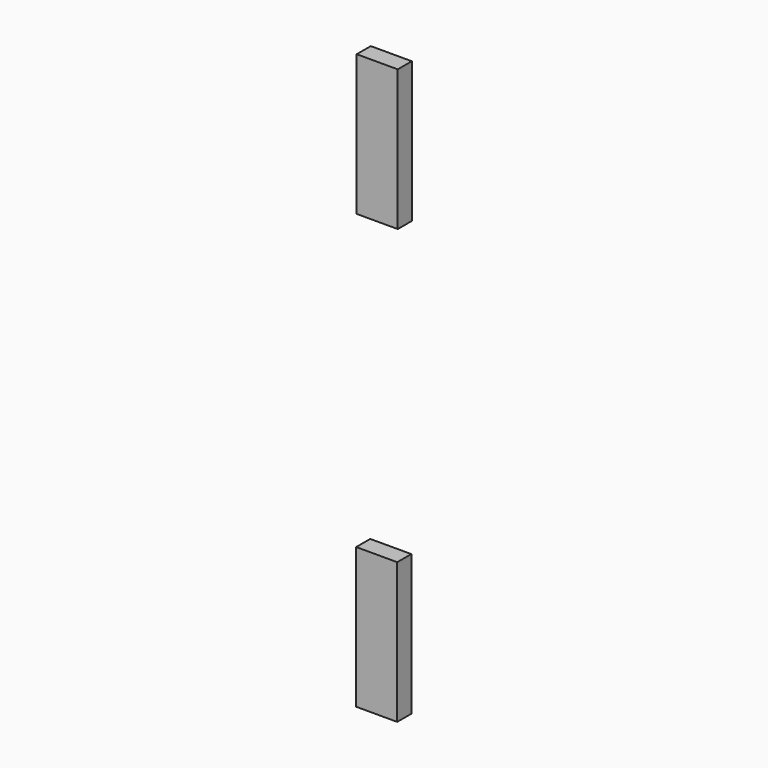
from build123d import *

# Parameters (mm, degrees)
F0_W     = 38.1
F0_H     = 304.8
F2_DEPTH = 44.45
F1_W     = 38.1
F1_H     = 304.8
F3_DEPTH = 44.45


with BuildPart() as f2:
    # F0 (on Right) → F2 (new body, symmetric)
    with BuildSketch(Plane.YZ):
        with Locations((-38.207637, 131.487306)):
            Rectangle(F0_W, F0_H)
    extrude(amount=F2_DEPTH, both=True)


with BuildPart() as f3:
    # F1 (on Right) → F3 (new body, symmetric)
    with BuildSketch(Plane.YZ):
        with Locations((-39.594454, -808.312694)):
            Rectangle(F1_W, F1_H)
    extrude(amount=F3_DEPTH, both=True)


solid = Compound([f2.part, f3.part])
